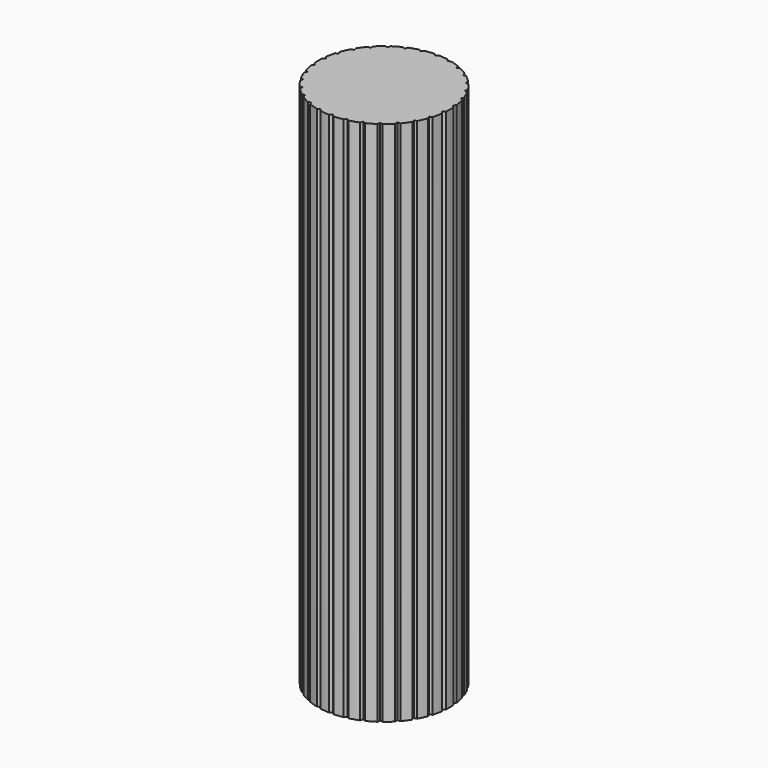
from build123d import *

# Parameters (mm, degrees)
F1_DEPTH = 381


with BuildPart() as f1:
    # F0 (on Top) → F1 (new body)
    with BuildSketch(Plane.XY):
        with BuildLine():
            Line((0, -46.228), (1.500422, -47.728422))
            ThreePointArc((1.500422, -47.728422), (4.991443, -47.49041), (8.455663, -46.997396))
            Line((8.455663, -46.997396), (9.611342, -45.217807))
            Line((9.611342, -45.217807), (11.390931, -46.373486))
            ThreePointArc((11.390931, -46.373486), (14.75618, -45.414851), (18.042195, -44.212359))
            Line((18.042195, -44.212359), (18.802622, -42.231379))
            Line((18.802622, -42.231379), (20.783601, -42.991806))
            ThreePointArc((20.783601, -42.991806), (23.876, -41.354445), (26.840196, -39.49503))
            Line((26.840196, -39.49503), (27.172137, -37.399238))
            Line((27.172137, -37.399238), (29.267929, -37.731179))
            ThreePointArc((29.267929, -37.731179), (31.952325, -35.486652), (34.465152, -33.051578))
            Line((34.465152, -33.051578), (34.354099, -30.93257))
            Line((34.354099, -30.93257), (36.473108, -30.821517))
            ThreePointArc((36.473108, -30.821517), (38.63218, -28.067921), (40.583815, -25.163614))
            Line((40.583815, -25.163614), (40.034622, -23.114))
            Line((40.034622, -23.114), (42.084237, -22.564808))
            ThreePointArc((42.084237, -22.564808), (43.623623, -19.422488), (44.928771, -16.175879))
            Line((44.928771, -16.175879), (43.965441, -14.285238))
            Line((43.965441, -14.285238), (45.856082, -13.321908))
            ThreePointArc((45.856082, -13.321908), (46.708504, -9.928199), (47.310124, -6.481181))
            Line((47.310124, -6.481181), (45.974758, -4.832142))
            Line((45.974758, -4.832142), (47.623797, -3.496776))
            ThreePointArc((47.623797, -3.496776), (47.752, 0), (47.623797, 3.496776))
            Line((47.623797, 3.496776), (45.974758, 4.832142))
            Line((45.974758, 4.832142), (47.310124, 6.481181))
            ThreePointArc((47.310124, 6.481181), (46.708504, 9.928199), (45.856082, 13.321908))
            Line((45.856082, 13.321908), (43.965441, 14.285238))
            Line((43.965441, 14.285238), (44.928771, 16.175879))
            ThreePointArc((44.928771, 16.175879), (43.623623, 19.422488), (42.084237, 22.564808))
            Line((42.084237, 22.564808), (40.034622, 23.114))
            Line((40.034622, 23.114), (40.583815, 25.163614))
            ThreePointArc((40.583815, 25.163614), (38.63218, 28.067921), (36.473108, 30.821517))
            Line((36.473108, 30.821517), (34.354099, 30.93257))
            Line((34.354099, 30.93257), (34.465152, 33.051578))
            ThreePointArc((34.465152, 33.051578), (31.952325, 35.486652), (29.267929, 37.731179))
            Line((29.267929, 37.731179), (27.172137, 37.399238))
            Line((27.172137, 37.399238), (26.840196, 39.49503))
            ThreePointArc((26.840196, 39.49503), (23.876, 41.354445), (20.783601, 42.991806))
            Line((20.783601, 42.991806), (18.802622, 42.231379))
            Line((18.802622, 42.231379), (18.042195, 44.212359))
            ThreePointArc((18.042195, 44.212359), (14.75618, 45.414851), (11.390931, 46.373486))
            Line((11.390931, 46.373486), (9.611342, 45.217807))
            Line((9.611342, 45.217807), (8.455663, 46.997396))
            ThreePointArc((8.455663, 46.997396), (4.991443, 47.49041), (1.500422, 47.728422))
            Line((1.500422, 47.728422), (0, 46.228))
            Line((0, 46.228), (-1.500422, 47.728422))
            ThreePointArc((-1.500422, 47.728422), (-4.991443, 47.49041), (-8.455663, 46.997396))
            Line((-8.455663, 46.997396), (-9.611342, 45.217807))
            Line((-9.611342, 45.217807), (-11.390931, 46.373486))
            ThreePointArc((-11.390931, 46.373486), (-14.75618, 45.414851), (-18.042195, 44.212359))
            Line((-18.042195, 44.212359), (-18.802622, 42.231379))
            Line((-18.802622, 42.231379), (-20.783601, 42.991806))
            ThreePointArc((-20.783601, 42.991806), (-23.876, 41.354445), (-26.840196, 39.49503))
            Line((-26.840196, 39.49503), (-27.172137, 37.399238))
            Line((-27.172137, 37.399238), (-29.267929, 37.731179))
            ThreePointArc((-29.267929, 37.731179), (-31.952325, 35.486652), (-34.465152, 33.051578))
            Line((-34.465152, 33.051578), (-34.354099, 30.93257))
            Line((-34.354099, 30.93257), (-36.473108, 30.821517))
            ThreePointArc((-36.473108, 30.821517), (-38.63218, 28.067921), (-40.583815, 25.163614))
            Line((-40.583815, 25.163614), (-40.034622, 23.114))
            Line((-40.034622, 23.114), (-42.084237, 22.564808))
            ThreePointArc((-42.084237, 22.564808), (-43.623623, 19.422488), (-44.928771, 16.175879))
            Line((-44.928771, 16.175879), (-43.965441, 14.285238))
            Line((-43.965441, 14.285238), (-45.856082, 13.321908))
            ThreePointArc((-45.856082, 13.321908), (-46.708504, 9.928199), (-47.310124, 6.481181))
            Line((-47.310124, 6.481181), (-45.974758, 4.832142))
            Line((-45.974758, 4.832142), (-47.623797, 3.496776))
            ThreePointArc((-47.623797, 3.496776), (-47.752, 0), (-47.623797, -3.496776))
            Line((-47.623797, -3.496776), (-45.974758, -4.832142))
            Line((-45.974758, -4.832142), (-47.310124, -6.481181))
            ThreePointArc((-47.310124, -6.481181), (-46.708504, -9.928199), (-45.856082, -13.321908))
            Line((-45.856082, -13.321908), (-43.965441, -14.285238))
            Line((-43.965441, -14.285238), (-44.928771, -16.175879))
            ThreePointArc((-44.928771, -16.175879), (-43.623623, -19.422488), (-42.084237, -22.564808))
            Line((-42.084237, -22.564808), (-40.034622, -23.114))
            Line((-40.034622, -23.114), (-40.583815, -25.163614))
            ThreePointArc((-40.583815, -25.163614), (-38.63218, -28.067921), (-36.473108, -30.821517))
            Line((-36.473108, -30.821517), (-34.354099, -30.93257))
            Line((-34.354099, -30.93257), (-34.465152, -33.051578))
            ThreePointArc((-34.465152, -33.051578), (-31.952325, -35.486652), (-29.267929, -37.731179))
            Line((-29.267929, -37.731179), (-27.172137, -37.399238))
            Line((-27.172137, -37.399238), (-26.840196, -39.49503))
            ThreePointArc((-26.840196, -39.49503), (-23.876, -41.354445), (-20.783601, -42.991806))
            Line((-20.783601, -42.991806), (-18.802622, -42.231379))
            Line((-18.802622, -42.231379), (-18.042195, -44.212359))
            ThreePointArc((-18.042195, -44.212359), (-14.75618, -45.414851), (-11.390931, -46.373486))
            Line((-11.390931, -46.373486), (-9.611342, -45.217807))
            Line((-9.611342, -45.217807), (-8.455663, -46.997396))
            ThreePointArc((-8.455663, -46.997396), (-4.991443, -47.49041), (-1.500422, -47.728422))
            Line((-1.500422, -47.728422), (0, -46.228))
        make_face()
    extrude(amount=F1_DEPTH)


solid = f1.part
